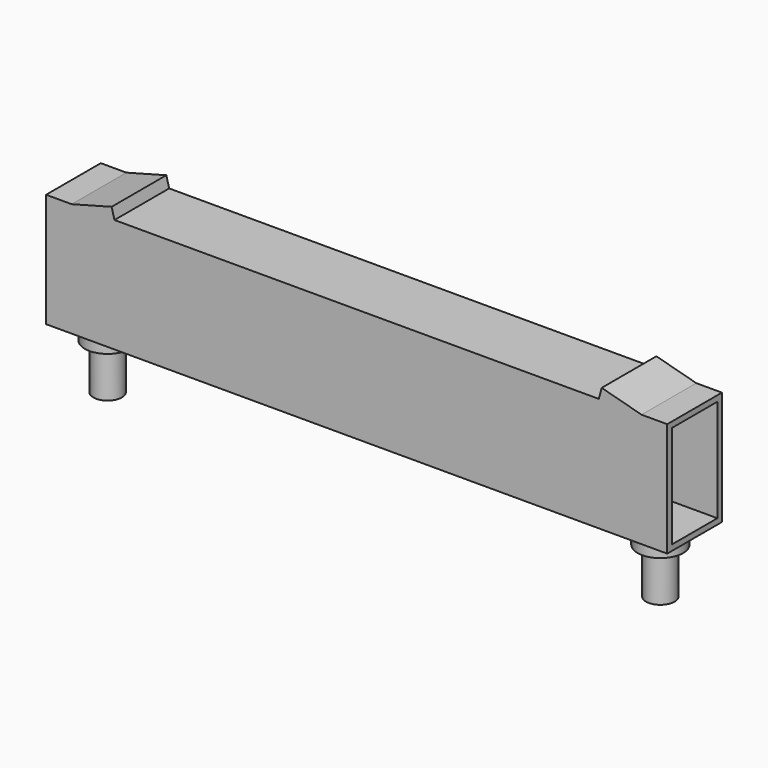
from build123d import *

# Parameters (mm, degrees)
F0_W          = 76.2
F0_H          = 127
F0_W_2        = 63.5000020266
F0_H_2        = 114.3000020266
F1_DEPTH      = 346.075
F2_R          = 25.4
F3_DEPTH      = 19.05
F5_DEPTH      = 38.1
F5_DEPTH_BACK = 38.1
F6_R          = 15.875
F7_DEPTH      = 50.8


with BuildPart() as f1:
    # F0 (on Right) → F1 (new body, symmetric)
    with BuildSketch(Plane.YZ):
        Rectangle(F0_W, F0_H)
        Rectangle(F0_W_2, F0_H_2, mode=Mode.SUBTRACT)
    extrude(amount=F1_DEPTH, both=True)

    # F2 (on face) → F3 (join)
    with BuildSketch(Plane(origin=(0, 0, -63.5), x_dir=(1, 0, 0), z_dir=(0, 0, -1))):
        with Locations((-307.975, 0)):
            Circle(F2_R)
        with Locations((307.975, 0)):
            Circle(F2_R)
    extrude(amount=F3_DEPTH)

    # F4 (on Front) → F5 (join, two sides)
    with BuildSketch(Plane.XZ) as f5_sk:
        Polygon((-273.05, 75.4103416036), (-317.5, 63.5), (-273.05, 63.5), (-269.8586335857, 63.5), align=None)
        Polygon((269.8586335857, 63.5), (273.05, 63.5), (317.5, 63.5), (273.05, 75.4103416036), align=None)
    extrude(amount=-F5_DEPTH)
    extrude(f5_sk.sketch, amount=F5_DEPTH_BACK)

    # F6 (on face) → F7 (join)
    with BuildSketch(Plane(origin=(0, 0, -82.55), x_dir=(1, 0, 0), z_dir=(0, 0, -1))):
        with Locations((-307.975, 0)):
            Circle(F6_R)
    extrude(amount=F7_DEPTH)

    # F8: F1 across plane


with BuildPart() as f1_1:
    add(f1.part)
    add(f1.part.mirror(Plane.YZ))


solid = f1_1.part
